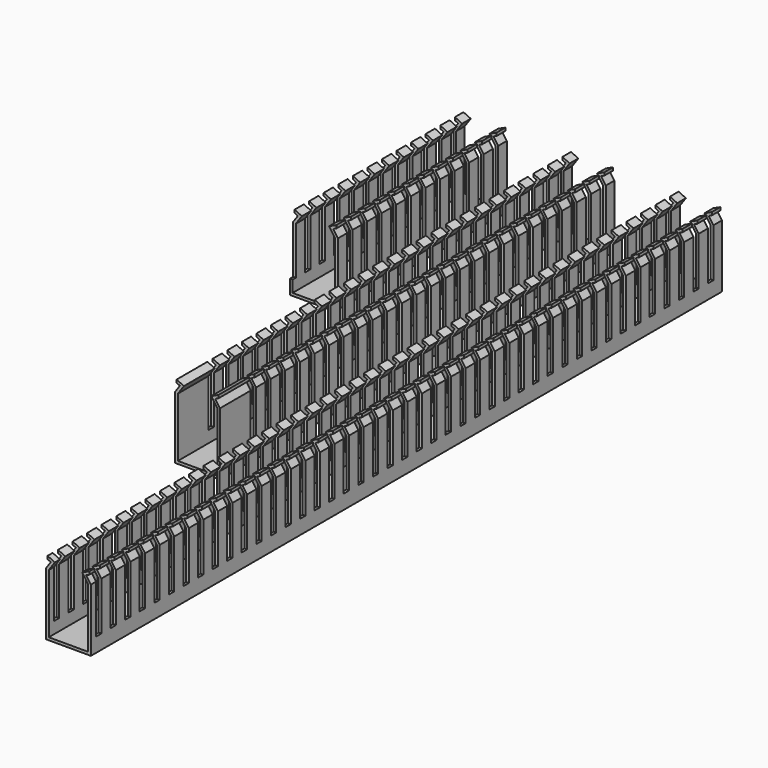
from build123d import *

# Parameters (mm, degrees)
F1_DEPTH = 558.8
F2_W     = 4.699
F2_H     = 34.29
F2_H_2   = 7.960872
F3_DEPTH = 31.75
F4_DEPTH = 349.25
F5_DEPTH = 152.4
F6_W     = 4.699
F6_H     = 34.29
F6_H_2   = 7.960872
F7_DEPTH = 31.75
F8_W     = 4.699
F8_H     = 34.29
F8_H_2   = 7.960872
F8_H_3   = 42.250872
F9_DEPTH = 31.75


with BuildPart() as f1:
    # F0 (on Front) → F1 (new body)
    with BuildSketch(Plane.XZ):
        Polygon((0, 44.45), (0, 0), (31.75, 0), (31.75, 44.45), (28.399166, 49.235486), (30.701188, 50.308937), (30.701188, 52.410872), (25.536497, 50.002536), (29.845, 43.849356), (29.845, 1.905), (1.905, 1.905), (1.905, 43.849356), (6.213503, 50.002536), (1.048812, 52.410872), (1.048812, 50.308937), (3.350834, 49.235486), align=None)
    extrude(amount=F1_DEPTH)

    # F2 (on face) → F3 (cut, through all)
    with BuildSketch(Plane.YZ.offset(31.75)):
        with Locations((-9.9695, 27.305)):
            Rectangle(F2_W, F2_H)
        with Locations((-9.9695, 48.430436)):
            Rectangle(F2_W, F2_H_2)
        with Locations((-22.8727, 48.430436)):
            Rectangle(F2_W, F2_H_2)
        with Locations((-22.8727, 27.305)):
            Rectangle(F2_W, F2_H)
        with Locations((-35.7759, 27.305)):
            Rectangle(F2_W, F2_H)
        with Locations((-35.7759, 48.430436)):
            Rectangle(F2_W, F2_H_2)
        with Locations((-48.6791, 48.430436)):
            Rectangle(F2_W, F2_H_2)
        with Locations((-48.6791, 27.305)):
            Rectangle(F2_W, F2_H)
        with Locations((-61.5823, 48.430436)):
            Rectangle(F2_W, F2_H_2)
        with Locations((-61.5823, 27.305)):
            Rectangle(F2_W, F2_H)
        with Locations((-74.4855, 27.305)):
            Rectangle(F2_W, F2_H)
        with Locations((-87.3887, 27.305)):
            Rectangle(F2_W, F2_H)
        with Locations((-100.2919, 27.305)):
            Rectangle(F2_W, F2_H)
        with Locations((-113.1951, 27.305)):
            Rectangle(F2_W, F2_H)
        with Locations((-113.1951, 48.430436)):
            Rectangle(F2_W, F2_H_2)
        with Locations((-100.2919, 48.430436)):
            Rectangle(F2_W, F2_H_2)
        with Locations((-87.3887, 48.430436)):
            Rectangle(F2_W, F2_H_2)
        with Locations((-74.4855, 48.430436)):
            Rectangle(F2_W, F2_H_2)
        with Locations((-126.0983, 48.430436)):
            Rectangle(F2_W, F2_H_2)
        with Locations((-126.0983, 27.305)):
            Rectangle(F2_W, F2_H)
        with Locations((-139.0015, 48.430436)):
            Rectangle(F2_W, F2_H_2)
        with Locations((-139.0015, 27.305)):
            Rectangle(F2_W, F2_H)
        with Locations((-151.9047, 48.430436)):
            Rectangle(F2_W, F2_H_2)
        with Locations((-151.9047, 27.305)):
            Rectangle(F2_W, F2_H)
        with Locations((-164.8079, 48.430436)):
            Rectangle(F2_W, F2_H_2)
        with Locations((-164.8079, 27.305)):
            Rectangle(F2_W, F2_H)
        with Locations((-177.7111, 48.430436)):
            Rectangle(F2_W, F2_H_2)
        with Locations((-177.7111, 27.305)):
            Rectangle(F2_W, F2_H)
        with Locations((-190.6143, 27.305)):
            Rectangle(F2_W, F2_H)
        with Locations((-190.6143, 48.430436)):
            Rectangle(F2_W, F2_H_2)
        with Locations((-203.5175, 48.430436)):
            Rectangle(F2_W, F2_H_2)
        with Locations((-203.5175, 27.305)):
            Rectangle(F2_W, F2_H)
        with Locations((-216.4207, 48.430436)):
            Rectangle(F2_W, F2_H_2)
        with Locations((-216.4207, 27.305)):
            Rectangle(F2_W, F2_H)
        with Locations((-229.3239, 48.430436)):
            Rectangle(F2_W, F2_H_2)
        with Locations((-229.3239, 27.305)):
            Rectangle(F2_W, F2_H)
        with Locations((-242.2271, 27.305)):
            Rectangle(F2_W, F2_H)
        with Locations((-242.2271, 48.430436)):
            Rectangle(F2_W, F2_H_2)
        with Locations((-255.1303, 27.305)):
            Rectangle(F2_W, F2_H)
        with Locations((-255.1303, 48.430436)):
            Rectangle(F2_W, F2_H_2)
        with Locations((-268.0335, 48.430436)):
            Rectangle(F2_W, F2_H_2)
        with Locations((-268.0335, 27.305)):
            Rectangle(F2_W, F2_H)
        with Locations((-280.9367, 48.430436)):
            Rectangle(F2_W, F2_H_2)
        with Locations((-280.9367, 27.305)):
            Rectangle(F2_W, F2_H)
        with Locations((-293.8399, 48.430436)):
            Rectangle(F2_W, F2_H_2)
        with Locations((-293.8399, 27.305)):
            Rectangle(F2_W, F2_H)
        with Locations((-306.7431, 48.430436)):
            Rectangle(F2_W, F2_H_2)
        with Locations((-306.7431, 27.305)):
            Rectangle(F2_W, F2_H)
        with Locations((-319.6463, 48.430436)):
            Rectangle(F2_W, F2_H_2)
        with Locations((-319.6463, 27.305)):
            Rectangle(F2_W, F2_H)
        with Locations((-332.5495, 48.430436)):
            Rectangle(F2_W, F2_H_2)
        with Locations((-332.5495, 27.305)):
            Rectangle(F2_W, F2_H)
        with Locations((-345.4527, 48.430436)):
            Rectangle(F2_W, F2_H_2)
        with Locations((-345.4527, 27.305)):
            Rectangle(F2_W, F2_H)
        with Locations((-358.3559, 48.430436)):
            Rectangle(F2_W, F2_H_2)
        with Locations((-358.3559, 27.305)):
            Rectangle(F2_W, F2_H)
        with Locations((-371.2591, 48.430436)):
            Rectangle(F2_W, F2_H_2)
        with Locations((-371.2591, 27.305)):
            Rectangle(F2_W, F2_H)
        with Locations((-384.1623, 48.430436)):
            Rectangle(F2_W, F2_H_2)
        with Locations((-384.1623, 27.305)):
            Rectangle(F2_W, F2_H)
        with Locations((-397.0655, 48.430436)):
            Rectangle(F2_W, F2_H_2)
        with Locations((-397.0655, 27.305)):
            Rectangle(F2_W, F2_H)
        with Locations((-409.9687, 48.430436)):
            Rectangle(F2_W, F2_H_2)
        with Locations((-409.9687, 27.305)):
            Rectangle(F2_W, F2_H)
        with Locations((-422.8719, 48.430436)):
            Rectangle(F2_W, F2_H_2)
        with Locations((-422.8719, 27.305)):
            Rectangle(F2_W, F2_H)
        with Locations((-435.7751, 48.430436)):
            Rectangle(F2_W, F2_H_2)
        with Locations((-435.7751, 27.305)):
            Rectangle(F2_W, F2_H)
        with Locations((-448.6783, 48.430436)):
            Rectangle(F2_W, F2_H_2)
        with Locations((-448.6783, 27.305)):
            Rectangle(F2_W, F2_H)
        with Locations((-461.5815, 27.305)):
            Rectangle(F2_W, F2_H)
        with Locations((-461.5815, 48.430436)):
            Rectangle(F2_W, F2_H_2)
        with Locations((-474.4847, 48.430436)):
            Rectangle(F2_W, F2_H_2)
        with Locations((-474.4847, 27.305)):
            Rectangle(F2_W, F2_H)
        with Locations((-487.3879, 48.430436)):
            Rectangle(F2_W, F2_H_2)
        with Locations((-487.3879, 27.305)):
            Rectangle(F2_W, F2_H)
        with Locations((-500.2911, 48.430436)):
            Rectangle(F2_W, F2_H_2)
        with Locations((-500.2911, 27.305)):
            Rectangle(F2_W, F2_H)
        with Locations((-513.1943, 48.430436)):
            Rectangle(F2_W, F2_H_2)
        with Locations((-513.1943, 27.305)):
            Rectangle(F2_W, F2_H)
        with Locations((-526.0975, 27.305)):
            Rectangle(F2_W, F2_H)
        with Locations((-539.0007, 27.305)):
            Rectangle(F2_W, F2_H)
        with Locations((-551.9039, 27.305)):
            Rectangle(F2_W, F2_H)
        with Locations((-551.9039, 48.430436)):
            Rectangle(F2_W, F2_H_2)
        with Locations((-539.0007, 48.430436)):
            Rectangle(F2_W, F2_H_2)
        with Locations((-526.0975, 48.430436)):
            Rectangle(F2_W, F2_H_2)
    extrude(amount=-F3_DEPTH, mode=Mode.SUBTRACT)


with BuildPart() as f4:
    # F0 (on Front) → F4 (new body)
    with BuildSketch(Plane.XZ):
        Polygon((-76.2, 44.45), (-76.2, 0), (-44.45, 0), (-44.45, 44.45), (-47.800834, 49.235486), (-45.498812, 50.308937), (-45.498812, 52.410872), (-50.663503, 50.002536), (-46.355, 43.849356), (-46.355, 1.905), (-74.295, 1.905), (-74.295, 43.849356), (-69.986497, 50.002536), (-75.151188, 52.410872), (-75.151188, 50.308937), (-72.849166, 49.235486), align=None)
    extrude(amount=F4_DEPTH)

    # F6 (on face) → F7 (cut, through all)
    with BuildSketch(Plane.YZ.offset(-44.45)):
        with Locations((-9.9695, 27.305)):
            Rectangle(F6_W, F6_H)
        with Locations((-9.9695, 48.430436)):
            Rectangle(F6_W, F6_H_2)
        with Locations((-22.8727, 48.430436)):
            Rectangle(F6_W, F6_H_2)
        with Locations((-22.8727, 27.305)):
            Rectangle(F6_W, F6_H)
        with Locations((-35.7759, 48.430436)):
            Rectangle(F6_W, F6_H_2)
        with Locations((-35.7759, 27.305)):
            Rectangle(F6_W, F6_H)
        with Locations((-48.6791, 48.430436)):
            Rectangle(F6_W, F6_H_2)
        with Locations((-48.6791, 27.305)):
            Rectangle(F6_W, F6_H)
        with Locations((-61.5823, 48.430436)):
            Rectangle(F6_W, F6_H_2)
        with Locations((-61.5823, 27.305)):
            Rectangle(F6_W, F6_H)
        with Locations((-74.4855, 48.430436)):
            Rectangle(F6_W, F6_H_2)
        with Locations((-74.4855, 27.305)):
            Rectangle(F6_W, F6_H)
        with Locations((-87.3887, 27.305)):
            Rectangle(F6_W, F6_H)
        with Locations((-100.2919, 48.430436)):
            Rectangle(F6_W, F6_H_2)
        with Locations((-100.2919, 27.305)):
            Rectangle(F6_W, F6_H)
        with Locations((-113.1951, 48.430436)):
            Rectangle(F6_W, F6_H_2)
        with Locations((-113.1951, 27.305)):
            Rectangle(F6_W, F6_H)
        with Locations((-126.0983, 48.430436)):
            Rectangle(F6_W, F6_H_2)
        with Locations((-126.0983, 27.305)):
            Rectangle(F6_W, F6_H)
        with Locations((-139.0015, 48.430436)):
            Rectangle(F6_W, F6_H_2)
        with Locations((-139.0015, 27.305)):
            Rectangle(F6_W, F6_H)
        with Locations((-151.9047, 48.430436)):
            Rectangle(F6_W, F6_H_2)
        with Locations((-151.9047, 27.305)):
            Rectangle(F6_W, F6_H)
        with Locations((-164.8079, 48.430436)):
            Rectangle(F6_W, F6_H_2)
        with Locations((-164.8079, 27.305)):
            Rectangle(F6_W, F6_H)
        with Locations((-177.7111, 48.430436)):
            Rectangle(F6_W, F6_H_2)
        with Locations((-177.7111, 27.305)):
            Rectangle(F6_W, F6_H)
        with Locations((-190.6143, 48.430436)):
            Rectangle(F6_W, F6_H_2)
        with Locations((-190.6143, 27.305)):
            Rectangle(F6_W, F6_H)
        with Locations((-203.5175, 48.430436)):
            Rectangle(F6_W, F6_H_2)
        with Locations((-203.5175, 27.305)):
            Rectangle(F6_W, F6_H)
        with Locations((-216.4207, 48.430436)):
            Rectangle(F6_W, F6_H_2)
        with Locations((-216.4207, 27.305)):
            Rectangle(F6_W, F6_H)
        with Locations((-229.3239, 48.430436)):
            Rectangle(F6_W, F6_H_2)
        with Locations((-229.3239, 27.305)):
            Rectangle(F6_W, F6_H)
        with Locations((-242.2271, 48.430436)):
            Rectangle(F6_W, F6_H_2)
        with Locations((-242.2271, 27.305)):
            Rectangle(F6_W, F6_H)
        with Locations((-255.1303, 48.430436)):
            Rectangle(F6_W, F6_H_2)
        with Locations((-255.1303, 27.305)):
            Rectangle(F6_W, F6_H)
        with Locations((-268.0335, 48.430436)):
            Rectangle(F6_W, F6_H_2)
        with Locations((-268.0335, 27.305)):
            Rectangle(F6_W, F6_H)
        with Locations((-280.9367, 48.430436)):
            Rectangle(F6_W, F6_H_2)
        with Locations((-280.9367, 27.305)):
            Rectangle(F6_W, F6_H)
        with Locations((-293.8399, 48.430436)):
            Rectangle(F6_W, F6_H_2)
        with Locations((-293.8399, 27.305)):
            Rectangle(F6_W, F6_H)
        with Locations((-306.7431, 48.430436)):
            Rectangle(F6_W, F6_H_2)
        with Locations((-306.7431, 27.305)):
            Rectangle(F6_W, F6_H)
        with Locations((-319.6463, 48.430436)):
            Rectangle(F6_W, F6_H_2)
        with Locations((-319.6463, 27.305)):
            Rectangle(F6_W, F6_H)
        with Locations((-87.3887, 48.430436)):
            Rectangle(F6_W, F6_H_2)
    extrude(amount=-F7_DEPTH, mode=Mode.SUBTRACT)


with BuildPart() as f5:
    # F0 (on Front) → F5 (new body)
    with BuildSketch(Plane.XZ):
        Polygon((-152.4, 44.45), (-152.4, 0), (-120.65, 0), (-120.65, 44.45), (-124.000834, 49.235486), (-121.698812, 50.308937), (-121.698812, 52.410872), (-126.863503, 50.002536), (-122.555, 43.849356), (-122.555, 1.905), (-150.495, 1.905), (-150.495, 43.849356), (-146.186497, 50.002536), (-151.351188, 52.410872), (-151.351188, 50.308937), (-149.049166, 49.235486), align=None)
    extrude(amount=F5_DEPTH)

    # F8 (on face) → F9 (cut, through all)
    with BuildSketch(Plane.YZ.offset(-120.65)):
        with Locations((-9.9695, 27.305)):
            Rectangle(F8_W, F8_H)
        with Locations((-9.9695, 48.430436)):
            Rectangle(F8_W, F8_H_2)
        with Locations((-22.8727, 48.430436)):
            Rectangle(F8_W, F8_H_2)
        with Locations((-22.8727, 27.305)):
            Rectangle(F8_W, F8_H)
        with Locations((-35.7759, 48.430436)):
            Rectangle(F8_W, F8_H_2)
        with Locations((-35.7759, 27.305)):
            Rectangle(F8_W, F8_H)
        with Locations((-48.6791, 48.430436)):
            Rectangle(F8_W, F8_H_2)
        with Locations((-48.6791, 27.305)):
            Rectangle(F8_W, F8_H)
        with Locations((-61.5823, 48.430436)):
            Rectangle(F8_W, F8_H_2)
        with Locations((-61.5823, 27.305)):
            Rectangle(F8_W, F8_H)
        with Locations((-74.4855, 48.430436)):
            Rectangle(F8_W, F8_H_2)
        with Locations((-74.4855, 27.305)):
            Rectangle(F8_W, F8_H)
        with Locations((-87.3887, 48.430436)):
            Rectangle(F8_W, F8_H_2)
        with Locations((-87.3887, 27.305)):
            Rectangle(F8_W, F8_H)
        with Locations((-100.2919, 48.430436)):
            Rectangle(F8_W, F8_H_2)
        with Locations((-100.2919, 27.305)):
            Rectangle(F8_W, F8_H)
        with Locations((-113.1951, 48.430436)):
            Rectangle(F8_W, F8_H_2)
        with Locations((-113.1951, 27.305)):
            Rectangle(F8_W, F8_H)
        with Locations((-126.0983, 48.430436)):
            Rectangle(F8_W, F8_H_2)
        with Locations((-126.0983, 27.305)):
            Rectangle(F8_W, F8_H)
        with Locations((-139.0015, 48.430436)):
            Rectangle(F8_W, F8_H_2)
        with Locations((-139.0015, 27.305)):
            Rectangle(F8_W, F8_H)
        Polygon((-152.4, 44.45), (-149.5552, 44.45), (-149.5552, 52.410872), (-152.4, 52.410872), (-152.4, 50.308937), (-152.4, 50.002536), (-152.4, 49.235486), align=None)
        Polygon((-152.4, 43.849356), (-152.4, 10.16), (-149.5552, 10.16), (-149.5552, 44.45), (-152.4, 44.45), align=None)
        with Locations((-164.8079, 31.285436)):
            Rectangle(F8_W, F8_H_3)
        with Locations((-164.8079, 31.285436)):
            Rectangle(F8_W, F8_H_3)
    extrude(amount=-F9_DEPTH, mode=Mode.SUBTRACT)


solid = Compound([f1.part, f4.part, f5.part])
